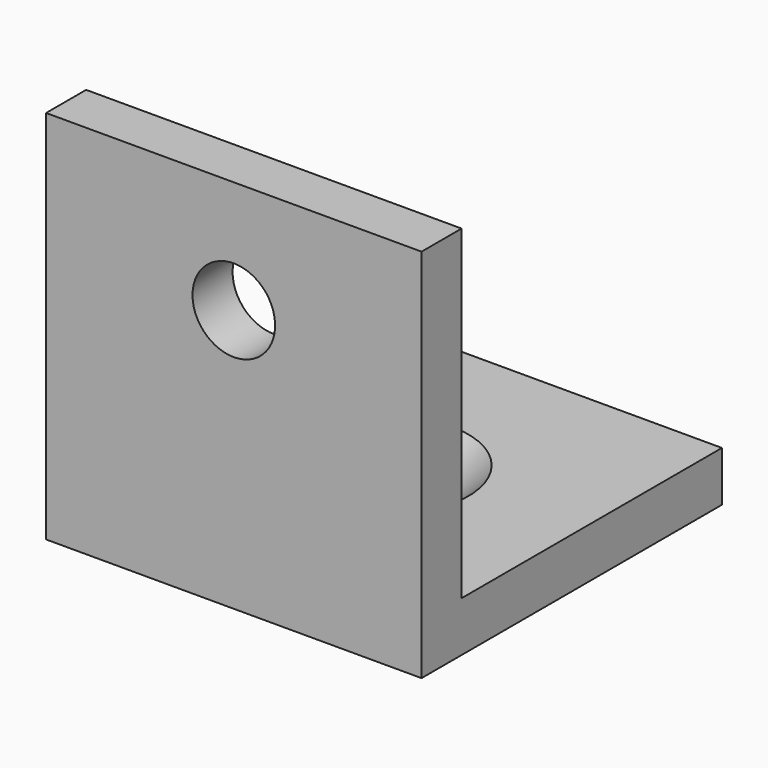
from build123d import *

# Parameters (mm, degrees)
F1_DEPTH       = 15
F3_D           = 3.3
F5_D           = 3.3
F5_CSINK_D     = 6.72
F5_CSINK_ANGLE = 90


with BuildPart() as f1:
    # F0 (on Right) → F1 (new body)
    with BuildSketch(Plane.YZ):
        Polygon((0, 15), (0, 0), (15, 0), (15, 2), (2, 2), (2, 15), align=None)
    extrude(amount=F1_DEPTH)

    # F3 (through all)
    with Locations(Plane.XZ):
        with Locations((7.5, 10.5)):
            Hole(F3_D / 2)

    # F5 (through all)
    with Locations(Plane.XY.offset(2)):
        with Locations((7.5, 7.5)):
            CounterSinkHole(F5_D / 2, F5_CSINK_D / 2, counter_sink_angle=F5_CSINK_ANGLE)


solid = f1.part
